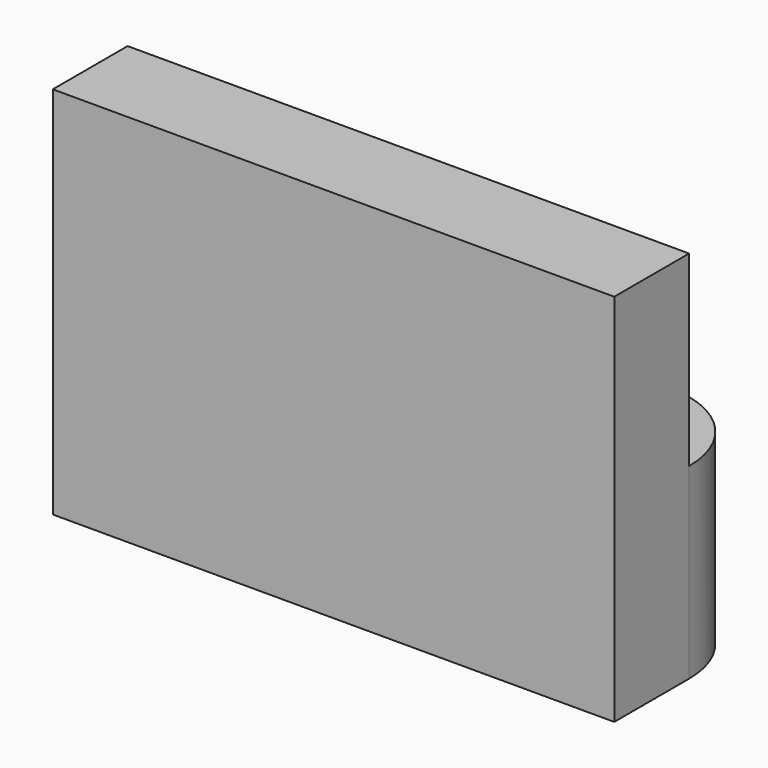
from build123d import *

# Parameters (mm, degrees)
F0_W     = 60
F0_H     = 10
F1_DEPTH = 40
F0_R     = 9.75
F2_DEPTH = 20


with BuildPart() as f1:
    # F0 (on Top) → F1 (new body)
    with BuildSketch(Plane.XY):
        with Locations((-4.968399, 5)):
            Rectangle(F0_W, F0_H)
    extrude(amount=F1_DEPTH)


with BuildPart() as f2:
    # F0 (on Top) → F2 (new body)
    with BuildSketch(Plane.XY):
        with BuildLine():
            Line((-34.968399, 20), (-34.968399, 10))
            Line((-34.968399, 10), (25.031601, 10))
            ThreePointArc((25.031601, 10), (22.102669, 17.071068), (15.031601, 20))
            Line((15.031601, 20), (5.031601, 20))
            ThreePointArc((5.031601, 20), (-14.968399, 40), (-34.968399, 20))
        make_face()
        with Locations((-14.968399, 20)):
            Circle(F0_R, mode=Mode.SUBTRACT)
    extrude(amount=F2_DEPTH)


solid = Compound([f1.part, f2.part])
